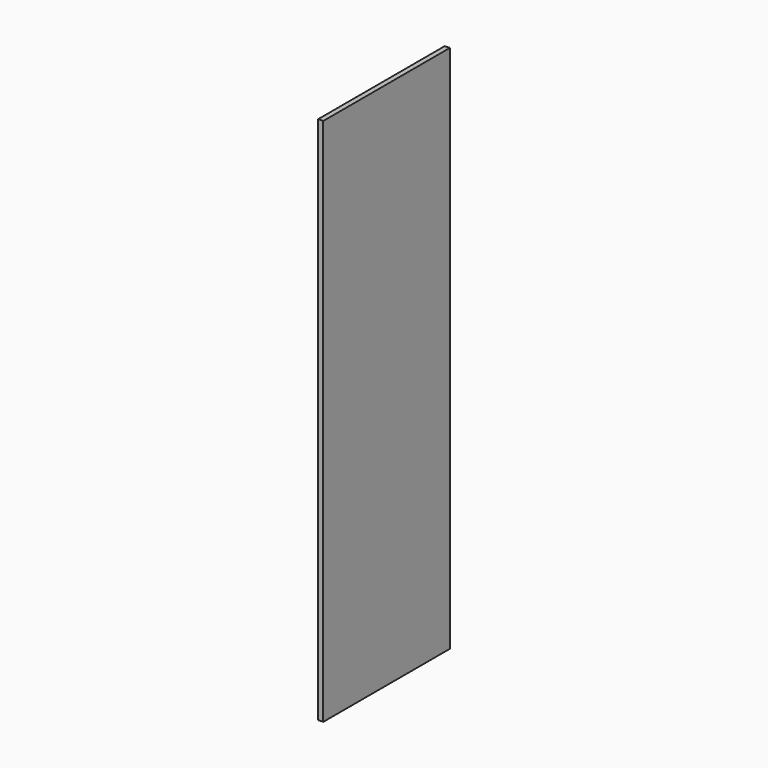
from build123d import *

# Parameters (mm, degrees)
SKETCH001_W  = 600
SKETCH001_H  = 2007
PAD001_DEPTH = 19


with BuildPart() as part:
    # Sketch001 → Pad001 (new body)
    with BuildSketch(Plane.YZ):
        Rectangle(SKETCH001_W, SKETCH001_H)
    extrude(amount=PAD001_DEPTH)


solid = part.part
